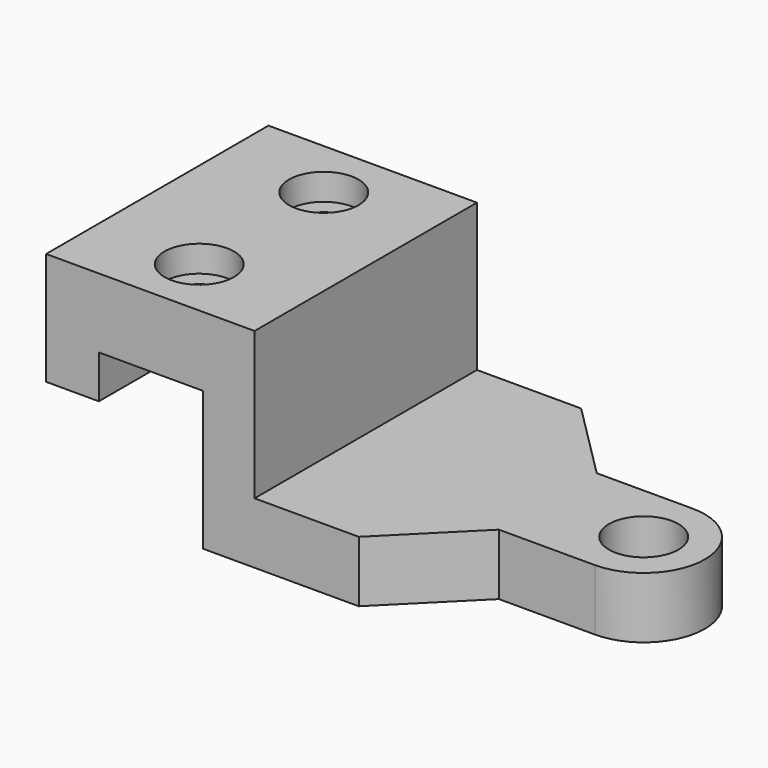
from build123d import *

# Parameters (mm, degrees)
F0_W     = 50.8
F0_H     = 38.1
F1_DEPTH = 50.8
F2_R     = 3.175
F3_DEPTH = 38.101
F4_W     = 63.5
F4_H     = 26.924
F5_DEPTH = 50.801
F6_R     = 6.35
F7_DEPTH = 11.177
F8_R     = 6.35
F9_DEPTH = 4.826


with BuildPart() as f1:
    # F0 (on Right) → F1 (new body, symmetric)
    with BuildSketch(Plane.YZ):
        Rectangle(F0_W, F0_H)
    extrude(amount=F1_DEPTH, both=True)

    # F2 (on face) → F3 (cut, through all)
    with BuildSketch(Plane.XY.offset(19.05)):
        with Locations((-31.75, -14.224)):
            Circle(F2_R)
        with Locations((-31.75, 14.224)):
            Circle(F2_R)
    extrude(amount=-F3_DEPTH, mode=Mode.SUBTRACT)

    # F4 (on face) → F5 (cut, through all)
    with BuildSketch(Plane.XZ.offset(25.4)):
        Polygon((-41.148, -1.524), (-50.8, -1.524), (-50.8, -19.05), (-22.098, -19.05), (-22.098, 6.35), (-41.148, 6.35), align=None)
        with Locations((19.05, 5.588)):
            Rectangle(F4_W, F4_H)
    extrude(amount=-F5_DEPTH, mode=Mode.SUBTRACT)

    # F6 (on face) → F7 (cut, through all)
    with BuildSketch(Plane.XY.offset(-7.874)):
        with BuildLine():
            ThreePointArc((38.1, 11.176), (49.276, 0), (38.1, -11.176))
            Line((38.1, -11.176), (20.574, -11.176))
            Line((20.574, -11.176), (6.35, -25.4))
            Line((6.35, -25.4), (50.8, -25.4))
            Line((50.8, -25.4), (50.8, 25.4))
            Line((50.8, 25.4), (6.35, 25.4))
            Line((6.35, 25.4), (20.574, 11.176))
            Line((20.574, 11.176), (24.505507, 11.176))
            Line((24.505507, 11.176), (38.1, 11.176))
        make_face()
        with Locations((38.1, 0)):
            Circle(F6_R)
    extrude(amount=-F7_DEPTH, mode=Mode.SUBTRACT)

    # F8 (on face) → F9 (cut)
    with BuildSketch(Plane.XY.offset(19.05)):
        with Locations((-31.75, 14.224)):
            Circle(F8_R)
        with Locations((-31.75, -14.224)):
            Circle(F8_R)
    extrude(amount=-F9_DEPTH, mode=Mode.SUBTRACT)


solid = f1.part
